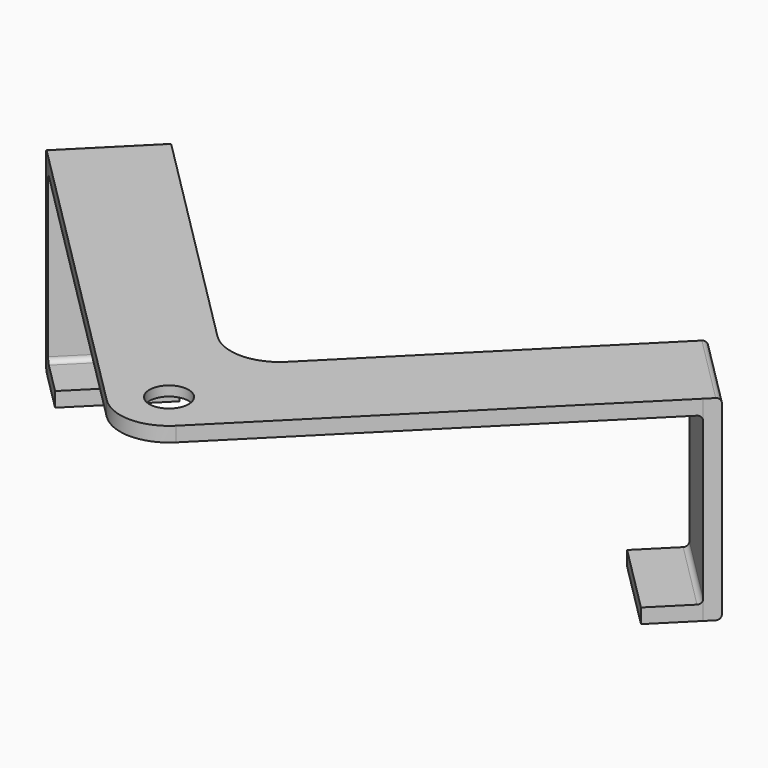
from build123d import *

# Parameters (mm, degrees)
F0_R     = 6
F0_R_2   = 4
F1_DEPTH = 3
F2_DEPTH = 37
F3_DEPTH = 34
F4_DEPTH = 1
F5_DEPTH = 5000
F6_R     = 10
F7_R     = 1


with BuildPart() as f1:
    # F0 (on Top) → F1 (new body)
    with BuildSketch(Plane.XY):
        Polygon((0, 14.1421356237), (-45.7365440327, 59.8786796564), (-59.8786796564, 45.7365440327), (0, -14.1421356237), (59.8786796564, 45.7365440327), (45.7365440327, 59.8786796564), align=None)
        Circle(F0_R, mode=Mode.SUBTRACT)
        Polygon((-45.7365440327, 59.8786796564), (-52.8076118446, 66.9497474683), (-66.9497474683, 52.8076118446), (-59.8786796564, 45.7365440327), align=None)
        Polygon((52.8076118446, 66.9497474683), (45.7365440327, 59.8786796564), (59.8786796564, 45.7365440327), (66.9497474683, 52.8076118446), align=None)
        Circle(F0_R)
        Circle(F0_R_2, mode=Mode.SUBTRACT)
        Polygon((-52.8076118446, 66.9497474683), (-54.9289321881, 69.0710678119), (-69.0710678119, 54.9289321881), (-66.9497474683, 52.8076118446), align=None)
        Polygon((54.9289321881, 69.0710678119), (52.8076118446, 66.9497474683), (66.9497474683, 52.8076118446), (69.0710678119, 54.9289321881), align=None)
        Circle(F0_R_2)
    extrude(amount=F1_DEPTH)

    # F0 (on Top) → F2 (join)
    with BuildSketch(Plane.XY):
        Polygon((-52.8076118446, 66.9497474683), (-54.9289321881, 69.0710678119), (-69.0710678119, 54.9289321881), (-66.9497474683, 52.8076118446), align=None)
        Polygon((-45.7365440327, 59.8786796564), (-52.8076118446, 66.9497474683), (-66.9497474683, 52.8076118446), (-59.8786796564, 45.7365440327), align=None)
        Polygon((52.8076118446, 66.9497474683), (45.7365440327, 59.8786796564), (59.8786796564, 45.7365440327), (66.9497474683, 52.8076118446), align=None)
        Polygon((54.9289321881, 69.0710678119), (52.8076118446, 66.9497474683), (66.9497474683, 52.8076118446), (69.0710678119, 54.9289321881), align=None)
    extrude(amount=-F2_DEPTH)

    # F0 (on Top) → F3 (cut)
    with BuildSketch(Plane.XY):
        Polygon((-45.7365440327, 59.8786796564), (-52.8076118446, 66.9497474683), (-66.9497474683, 52.8076118446), (-59.8786796564, 45.7365440327), align=None)
        Polygon((52.8076118446, 66.9497474683), (45.7365440327, 59.8786796564), (59.8786796564, 45.7365440327), (66.9497474683, 52.8076118446), align=None)
    extrude(amount=-F3_DEPTH, mode=Mode.SUBTRACT)

    # F0 (on Top) → F4 (cut)
    with BuildSketch(Plane.XY):
        Circle(F0_R)
        Circle(F0_R_2, mode=Mode.SUBTRACT)
    extrude(amount=F4_DEPTH, mode=Mode.SUBTRACT)

    # F0 (on Top) → F5 (cut)
    with BuildSketch(Plane.XY):
        Circle(F0_R_2)
    extrude(amount=F5_DEPTH, mode=Mode.SUBTRACT)

    # F6
    f6_edges = [f1.edges().sort_by_distance(p)[0] for p in [
        (0, -14.142136, 1.5),
        (0, 14.142136, 1.5),
    ]]
    fillet(f6_edges, radius=F6_R)

    # F7
    f7_edges = [f1.edges().sort_by_distance(p)[0] for p in [
        (62, 62, 3),
        (59.87868, 59.87868, 0),
        (62, 62, -37),
        (59.87868, 59.87868, -34),
        (-62, 62, -37),
        (-62, 62, 3),
        (-59.87868, 59.87868, 0),
        (-59.87868, 59.87868, -34),
    ]]
    fillet(f7_edges, radius=F7_R)


solid = f1.part
